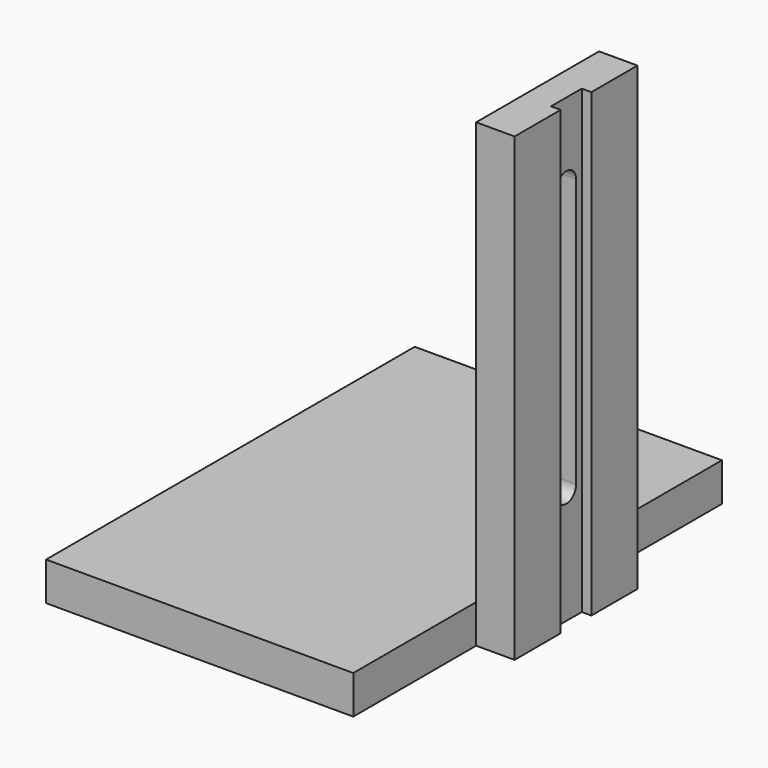
from build123d import *

# Parameters (mm, degrees)
F1_DEPTH = 25.4
F0_W     = 101.6
F0_H     = 12.7
F2_DEPTH = 76.2
F3_W     = 3.175
F3_H     = 12.7
F4_DEPTH = 152.4
F6_DEPTH = 12.701
F7_DEPTH = 1.5875


with BuildPart() as f1:
    # F0 (on Front) → F1 (new body, symmetric)
    with BuildSketch(Plane.XZ):
        Polygon((-12.7, 0), (0, 0), (0, 152.4), (-12.7, 152.4), (-12.7, 12.7), align=None)
    extrude(amount=F1_DEPTH, both=True)

    # F0 (on Front) → F2 (join, symmetric)
    with BuildSketch(Plane.XZ):
        with Locations((-63.5, 6.35)):
            Rectangle(F0_W, F0_H)
    extrude(amount=F2_DEPTH, both=True)

    # F3 (on face) → F4 (cut, through all)
    with BuildSketch(Plane(origin=(0, 0, 0), x_dir=(1, 0, 0), z_dir=(0, 0, -1))):
        with Locations((-1.5875, 0)):
            Rectangle(F3_W, F3_H)
    extrude(amount=-F4_DEPTH, mode=Mode.SUBTRACT)

    # F5 (on face) → F6 (cut, through all)
    with BuildSketch(Plane(origin=(-12.7, 0, 0), x_dir=(0, -1, 0), z_dir=(-1, 0, 0))):
        with BuildLine():
            ThreePointArc((-4, 38.1), (0, 34.1), (4, 38.1))
            Line((4, 38.1), (4, 127))
            ThreePointArc((4, 127), (0, 131), (-4, 127))
            Line((-4, 127), (-4, 38.1))
        make_face()
    extrude(amount=-F6_DEPTH, mode=Mode.SUBTRACT)

    # F5 (on face) → F7 (cut)
    with BuildSketch(Plane(origin=(-12.7, 0, 0), x_dir=(0, -1, 0), z_dir=(-1, 0, 0))):
        with BuildLine():
            ThreePointArc((-12.7, 38.1), (0, 25.4), (12.7, 38.1))
            Line((12.7, 38.1), (12.7, 127))
            ThreePointArc((12.7, 127), (0, 139.7), (-12.7, 127))
            Line((-12.7, 127), (-12.7, 38.1))
        make_face()
        with BuildLine():
            Line((4, 127), (4, 38.1))
            ThreePointArc((4, 38.1), (0, 34.1), (-4, 38.1))
            Line((-4, 38.1), (-4, 127))
            ThreePointArc((-4, 127), (0, 131), (4, 127))
        make_face(mode=Mode.SUBTRACT)
    extrude(amount=-F7_DEPTH, mode=Mode.SUBTRACT)


solid = f1.part
